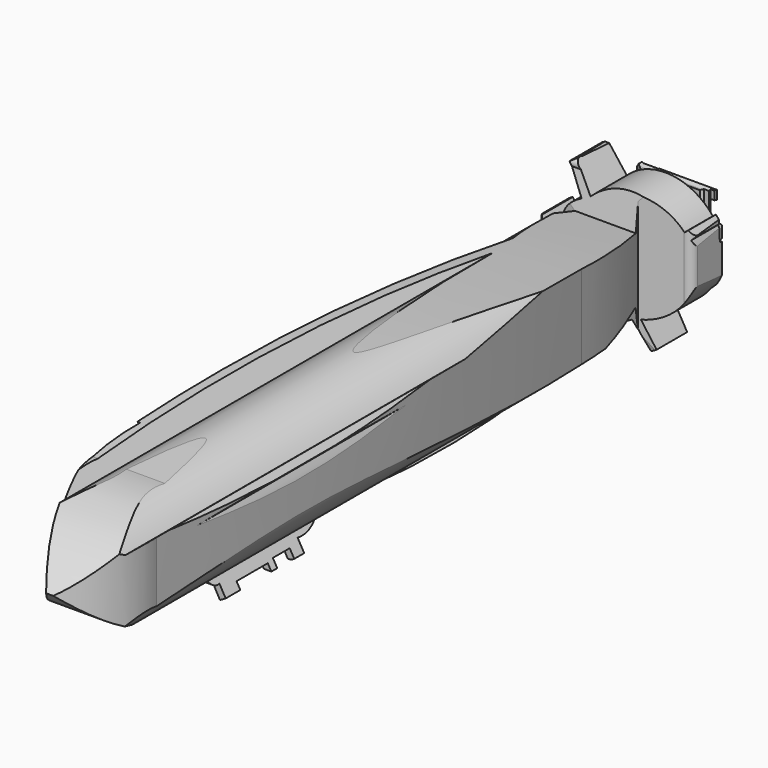
from build123d import *

# Parameters (mm, degrees)
F0_W     = 32
F0_H     = 23
F1_DEPTH = 128
F5_DEPTH = 128.001
F3_W     = 128
F3_H     = 23
F6_DEPTH = 32.001
F7_DEPTH = 22.731503


with BuildPart() as f1:
    # F0 (on Front) → F1 (new body)
    with BuildSketch(Plane.XZ):
        with Locations((16, 11.5)):
            Rectangle(F0_W, F0_H)
    extrude(amount=F1_DEPTH)

    # F2 (on face) → F5 (cut, through all)
    with BuildSketch(Plane.XZ.offset(128)):
        with BuildLine():
            ThreePointArc((17.061835, 18.735901), (23.894894, 21.118527), (30.157857, 17.493213))
            Line((30.157857, 17.493213), (30.6547, 17.876174))
            Line((30.6547, 17.876174), (31.353924, 16.969022))
            Line((31.353924, 16.969022), (30.922588, 16.537298))
            ThreePointArc((30.922588, 16.537298), (30.725812, 8.857112), (24.470169, 4.39719))
            Line((24.470169, 4.39719), (26.523015, 0.828593))
            Line((26.523015, 0.828593), (25.636964, 0.31889))
            Line((25.636964, 0.31889), (23.475241, 4.267994))
            ThreePointArc((23.475241, 4.267994), (20.00535, 3.316692), (16.723115, 4.79048))
            Line((16.723115, 4.79048), (15.344987, 4.728477))
            Line((15.344987, 4.728477), (14.708196, 5.835452))
            Line((14.708196, 5.835452), (13.388096, 5.076061))
            Line((13.388096, 5.076061), (15.798716, 0.88552))
            Line((15.798716, 0.88552), (15.014394, 0.434336))
            Line((15.014394, 0.434336), (12.663799, 4.728477))
            Line((12.663799, 4.728477), (8.403529, 2.620154))
            ThreePointArc((8.403529, 2.620154), (7.235963, 1.971728), (5.951863, 2.338815))
            Line((5.951863, 2.338815), (4.055551, 1.192177))
            Line((4.055551, 1.192177), (2.911656, 1.192177))
            Line((2.911656, 1.192177), (0.733749, 0))
            Line((0.733749, 0), (32, 0))
            Line((32, 0), (32, 23))
            Line((32, 23), (0, 23))
            Line((0, 23), (0, 0.86911))
            Line((0, 0.86911), (5.107849, 3.665126))
            ThreePointArc((5.107849, 3.665126), (5.360951, 5.042114), (6.514541, 5.835452))
            Line((6.514541, 5.835452), (10.640211, 8.24185))
            Line((10.640211, 8.24185), (8.124521, 12.837593))
            Line((8.124521, 12.837593), (9.033924, 13.36073))
            Line((9.033924, 13.36073), (11.766601, 8.610336))
            Line((11.766601, 8.610336), (12.917038, 9.272129))
            Line((12.917038, 9.272129), (11.918437, 11.096405))
            Line((11.918437, 11.096405), (12.663799, 12.30624))
            ThreePointArc((12.663799, 12.30624), (13.216041, 15.749918), (15.798716, 18.093778))
            Line((15.798716, 18.093778), (13.427434, 22.112902))
            Line((13.427434, 22.112902), (14.359395, 22.66276))
            Line((14.359395, 22.66276), (17.061835, 18.735901))
        make_face()
    extrude(amount=-F5_DEPTH, mode=Mode.SUBTRACT)

    # F3 (on face) → F6 (cut, through all)
    with BuildSketch(Plane.YZ.offset(32)):
        with Locations((-64, 11.5)):
            Rectangle(F3_W, F3_H)
        with BuildLine():
            ThreePointArc((-126.883626, 13.184872), (-117.76333, 19.102823), (-107.000619, 20.641001))
            ThreePointArc((-107.000619, 20.641001), (-60.812716, 20.907695), (-14.850512, 16.339388))
            Line((-14.850512, 16.339388), (-13.816753, 21.526868))
            ThreePointArc((-13.816753, 21.526868), (-13.606767, 22.454957), (-12.667666, 22.60836))
            Line((-12.667666, 22.60836), (-7.647824, 22.385173))
            Line((-7.647824, 22.385173), (-7.157772, 14.20638))
            Line((-7.157772, 14.20638), (-2.037578, 12.837615))
            Line((-2.037578, 12.837615), (-2.037578, 13.496649))
            Line((-2.037578, 13.496649), (-2.240357, 13.631837))
            Line((-2.240357, 13.631837), (-2.240357, 14.679532))
            Line((-2.240357, 14.679532), (-2.054477, 14.983702))
            Line((-2.054477, 14.983702), (-2.054477, 16.504552))
            Line((-2.054477, 16.504552), (-1.699611, 16.774926))
            Line((-1.699611, 16.774926), (-0.956084, 16.977705))
            Line((-0.956084, 16.977705), (-0.956084, 15.608941))
            Line((-0.956084, 15.608941), (-1.243356, 15.608941))
            Line((-1.243356, 15.608941), (-1.243356, 13.986701))
            Line((-1.243356, 13.986701), (-1.530628, 13.412158))
            Line((-1.530628, 13.412158), (-1.530628, 12.837615))
            Line((-1.530628, 12.837615), (-1.278191, 12.604548))
            ThreePointArc((-1.278191, 12.604548), (-0.097884, 11.157708), (-1.447176, 9.867018))
            Line((-1.447176, 9.867018), (-1.447176, 8.084094))
            Line((-1.447176, 8.084094), (-1.278191, 8.03892))
            Line((-1.278191, 8.03892), (-0.966455, 7.472441))
            Line((-0.966455, 7.472441), (-1.447176, 7.207898))
            Line((-1.447176, 7.207898), (-1.279578, 6.865304))
            Line((-1.279578, 6.865304), (-1.530628, 6.74249))
            Line((-1.530628, 6.74249), (-1.614147, 6.12447))
            Line((-1.614147, 6.12447), (-1.278191, 5.789901))
            Line((-1.278191, 5.789901), (-1.068025, 5.086186))
            Line((-1.068025, 5.086186), (-1.530628, 5.209852))
            Line((-1.530628, 5.209852), (-1.921129, 5.314243))
            Line((-1.921129, 5.314243), (-2.116002, 5.718207))
            Line((-2.116002, 5.718207), (-2.1399, 6.028879))
            Line((-2.1399, 6.028879), (-2.331083, 6.220062))
            Line((-2.331083, 6.220062), (-2.447544, 7.3386))
            Line((-2.447544, 7.3386), (-2.522671, 8.060154))
            Line((-2.522671, 8.060154), (-2.111166, 9.599487))
            Line((-2.111166, 9.599487), (-7.709637, 7.841214))
            Line((-7.709637, 7.841214), (-7.709637, 0.269497))
            Line((-7.709637, 0.269497), (-13.491379, 0.269497))
            Line((-13.491379, 0.269497), (-14.946102, 6.397882))
            ThreePointArc((-14.946102, 6.397882), (-45.411195, 3.128439), (-76.02901, 4.294871))
            ThreePointArc((-76.02901, 4.294871), (-78.29708, 2.844271), (-80.977388, 2.590626))
            Line((-80.977388, 2.590626), (-80.959588, 0.53652))
            Line((-80.959588, 0.53652), (-82.871415, 0.53652))
            Line((-82.871415, 0.53652), (-82.871415, 2.042084))
            Line((-82.871415, 2.042084), (-86.097628, 2.042084))
            Line((-86.097628, 2.042084), (-86.097628, 0.87109))
            Line((-86.097628, 0.87109), (-87.220825, 0.87109))
            Line((-87.220825, 0.87109), (-87.220825, 1.827004))
            Line((-87.220825, 1.827004), (-93.195289, 1.827004))
            Line((-93.195289, 1.827004), (-93.195289, 0.273644))
            Line((-93.195289, 0.273644), (-95.98311, 0.273644))
            Line((-95.98311, 0.273644), (-95.98311, 2.523033))
            ThreePointArc((-95.98311, 2.523033), (-97.481694, 3.088928), (-97.605348, 4.686019))
            ThreePointArc((-97.605348, 4.686019), (-102.302361, 4.978762), (-107.000619, 5.250785))
            ThreePointArc((-107.000619, 5.250785), (-117.82716, 6.999904), (-126.883626, 13.184872))
        make_face(mode=Mode.SUBTRACT)
    extrude(amount=-F6_DEPTH, mode=Mode.SUBTRACT)

    # F4 (on face) → F7 (cut, through all)
    with BuildSketch(Plane.XY.offset(23)):
        with BuildLine():
            Line((0, 0), (0, -94.042487))
            Line((0, -94.042487), (5.42041, -94.042487))
            Line((5.42041, -94.042487), (5.42041, -87.268606))
            Line((5.42041, -87.268606), (3.376584, -87.268606))
            ThreePointArc((3.376584, -87.268606), (2.899931, -86.475268), (3.638526, -85.91754))
            Line((3.638526, -85.91754), (5.42041, -85.973799))
            Line((5.42041, -85.973799), (5.42041, -82.635038))
            Line((5.42041, -82.635038), (1.133398, -82.635038))
            Line((1.133398, -82.635038), (1.133398, -80.780163))
            Line((1.133398, -80.780163), (5.42041, -80.780163))
            Line((5.42041, -80.780163), (5.42041, -77.997386))
            ThreePointArc((5.42041, -77.997386), (5.808001, -76.768536), (6.99206, -76.260298))
            Line((6.99206, -76.260298), (13.829025, -75.6846))
            ThreePointArc((13.829025, -75.6846), (12.056541, -53.337121), (11.957321, -30.91968))
            ThreePointArc((11.957321, -30.91968), (12.505847, -22.690595), (15.076827, -14.85422))
            Line((15.076827, -14.85422), (9.710563, -14.038489))
            ThreePointArc((9.710563, -14.038489), (8.779769, -13.367313), (8.504898, -12.253176))
            Line((8.504898, -12.253176), (8.504909, -7.753913))
            Line((8.504909, -7.753913), (16.411291, -7.26701))
            Line((16.411291, -7.26701), (17.895188, -2.467535))
            Line((17.895188, -2.467535), (17.686514, -1.702401))
            Line((17.686514, -1.702401), (17.004685, -2.202178))
            Line((17.004685, -2.202178), (16.341735, -2.096561))
            Line((16.341735, -2.096561), (14.996954, -2.096561))
            Line((14.996954, -2.096561), (13.489873, -0.983639))
            Line((13.489873, -0.983639), (13.761021, -0.789347))
            Line((13.761021, -0.789347), (14.51005, -1.030011))
            Line((14.51005, -1.030011), (16.828638, -1.030011))
            Line((16.828638, -1.030011), (16.828638, -0.789347))
            Line((16.828638, -0.789347), (18.300464, -0.789347))
            ThreePointArc((18.300464, -0.789347), (18.554473, -0.330933), (18.960856, 0))
            Line((18.960856, 0), (0, 0))
        make_face()
        with BuildLine():
            ThreePointArc((24.103645, -127.328761), (16.456896, -113.172988), (14.452926, -97.209193))
            Line((14.452926, -97.209193), (6.830681, -97.63211))
            ThreePointArc((6.830681, -97.63211), (5.908168, -97.306469), (5.562332, -96.391335))
            Line((5.562332, -96.391335), (0, -96.314698))
            Line((0, -96.314698), (0, -128))
            Line((0, -128), (32, -128))
            Line((32, -128), (32, 0))
            Line((32, 0), (20.268805, 0))
            ThreePointArc((20.268805, 0), (20.665791, -0.319821), (20.91988, -0.761774))
            Line((20.91988, -0.761774), (21.69767, -0.761774))
            Line((21.69767, -0.761774), (22.022273, -0.334435))
            Line((22.022273, -0.334435), (22.764221, -0.334435))
            Line((22.764221, -0.334435), (22.764221, -0.761774))
            Line((22.764221, -0.761774), (23.784399, -0.761774))
            Line((23.784399, -0.761774), (24.132187, -0.450364))
            Line((24.132187, -0.450364), (26.033428, -0.450364))
            Line((26.033428, -0.450364), (25.500154, -1.21806))
            Line((25.500154, -1.21806), (24.920506, -1.21806))
            Line((24.920506, -1.21806), (24.920506, -1.5401))
            Line((24.920506, -1.5401), (24.155373, -1.5401))
            Line((24.155373, -1.5401), (23.784399, -1.841516))
            Line((23.784399, -1.841516), (21.326697, -1.841516))
            Line((21.326697, -1.841516), (23.019265, -7.127895))
            Line((23.019265, -7.127895), (31.064762, -6.756921))
            Line((31.064762, -6.756921), (31.296607, -11.696716))
            ThreePointArc((31.296607, -11.696716), (30.908986, -12.479689), (30.090943, -12.786452))
            Line((30.090943, -12.786452), (24.103645, -14.074345))
            ThreePointArc((24.103645, -14.074345), (26.217318, -21.458597), (27.398879, -29.047977))
            ThreePointArc((27.398879, -29.047977), (31.112401, -71.550347), (30.518385, -114.210501))
            ThreePointArc((30.518385, -114.210501), (29.360081, -121.771611), (24.103645, -127.328761))
        make_face()
    extrude(amount=-F7_DEPTH, mode=Mode.SUBTRACT)


solid = f1.part
